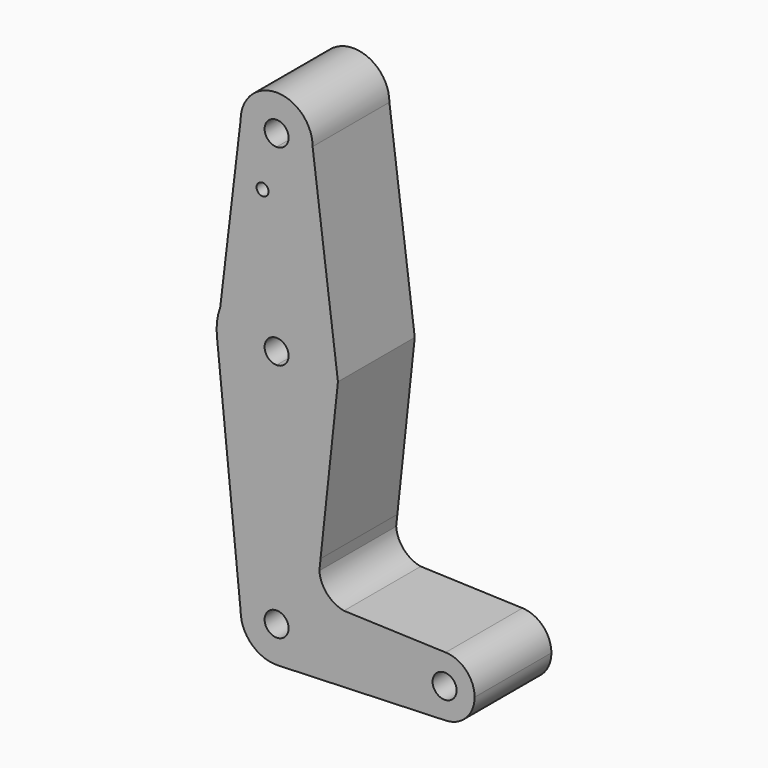
from build123d import *

# Parameters (mm, degrees)
F0_R     = 1.5875
F0_R_2   = 3.175
F1_DEPTH = 25.4


with BuildPart() as f1:
    # F0 (on Front) → F1 (new body)
    with BuildSketch(Plane.XZ):
        with BuildLine():
            Line((0.6773435479, 9.500885786), (0, 9.525))
            ThreePointArc((0, 9.525), (-6.7351920908, 6.7351920908), (-9.525, 0))
            ThreePointArc((-9.525, 0), (-6.6135634008, -6.854662949), (0.3409116313, -9.5188972187))
            ThreePointArc((0.3409116313, -9.5188972187), (6.854662949, -6.6135634008), (9.525, 0))
            ThreePointArc((9.525, 0), (6.9705567315, 6.4912990883), (0.6773435479, 9.500885786))
        make_face()
        with BuildLine():
            ThreePointArc((3.175, 0), (-2.2450640303, -2.2450640303), (0, 3.175))
            ThreePointArc((0, 3.175), (2.2450640303, 2.2450640303), (3.175, 0))
        make_face(mode=Mode.SUBTRACT)
        with BuildLine():
            ThreePointArc((-9.525, 0), (-6.7351920908, 6.7351920908), (0, 9.525))
            Line((0, 9.525), (0, 47.625))
            ThreePointArc((0, 47.625), (-10.5777230013, 51.6624579787), (-15.7750224275, 61.7211541912))
            Line((-15.7750224275, 61.7211541912), (-9.525, 0))
        make_face()
        with BuildLine():
            Line((0, 47.625), (0, 9.525))
            ThreePointArc((0, 9.525), (0.3388863295, 9.5189695375), (0.6773435479, 9.500885786))
            Line((0.6773435479, 9.500885786), (10.5658961765, 9.1488418708))
            Line((10.5658961765, 9.1488418708), (11.3140704884, 16.0926127295))
            ThreePointArc((11.3140704884, 16.0926127295), (11.3356363885, 17.5639502135), (11.6279927611, 19.006110687))
            Line((11.6279927611, 19.006110687), (16.2304341333, 61.7211541912))
            Line((16.2304341333, 61.7211541912), (15.7474568676, 65.5082896216))
            ThreePointArc((15.7474568676, 65.5082896216), (15.8430821303, 64.506167786), (15.875, 63.5))
            ThreePointArc((15.875, 63.5), (11.2253201513, 52.2746798487), (0, 47.625))
        make_face()
        with BuildLine():
            ThreePointArc((-15.7750224275, 61.7211541912), (-10.5777230013, 51.6624579787), (0, 47.625))
            Line((0, 47.625), (0, 60.325))
            ThreePointArc((0, 60.325), (-3.175, 63.5), (0, 66.675))
            Line((0, 66.675), (0, 79.375))
            ThreePointArc((0, 79.375), (-9.1064885054, 76.5033646454), (-14.918424022, 68.9273612095))
            Line((-14.918424022, 68.9273612095), (-15.7750224275, 61.7211541912))
        make_face()
        with BuildLine():
            Line((0, 60.325), (0, 47.625))
            ThreePointArc((0, 47.625), (11.2253201513, 52.2746798487), (15.875, 63.5))
            ThreePointArc((15.875, 63.5), (15.8430821303, 64.506167786), (15.7474568676, 65.5082896216))
            ThreePointArc((15.7474568676, 65.5082896216), (10.4912827447, 75.4142188737), (0, 79.375))
            Line((0, 79.375), (0, 66.675))
            ThreePointArc((0, 66.675), (2.2450640303, 65.7450640303), (3.175, 63.5))
            ThreePointArc((3.175, 63.5), (2.2450640303, 61.2549359697), (0, 60.325))
        make_face()
        with BuildLine():
            Line((10.5658961765, 9.1488418708), (0.6773435479, 9.500885786))
            ThreePointArc((0.6773435479, 9.500885786), (6.9705567315, 6.4912990883), (9.525, 0))
            ThreePointArc((9.525, 0), (6.854662949, -6.6135634008), (0.3409116313, -9.5188972187))
            Line((0.3409116313, -9.5188972187), (44.5010612585, -7.9373357619))
            ThreePointArc((44.5010612585, -7.9373357619), (36.5133432524, 0.1156975416), (44.7324052746, 7.9324746146))
            Line((44.7324052746, 7.9324746146), (17.815456774, 8.8907491255))
            Line((17.815456774, 8.8907491255), (10.5658961765, 9.1488418708))
        make_face()
        with BuildLine():
            ThreePointArc((-14.918424022, 68.9273612095), (-15.7640181628, 65.3738613515), (-15.7750224275, 61.7211541912))
            Line((-15.7750224275, 61.7211541912), (-14.918424022, 68.9273612095))
        make_face()
        with BuildLine():
            Line((11.3140704884, 16.0926127295), (10.5658961765, 9.1488418708))
            Line((10.5658961765, 9.1488418708), (17.815456774, 8.8907491255))
            ThreePointArc((17.815456774, 8.8907491255), (13.3387852281, 11.3849452803), (11.3140704884, 16.0926127295))
        make_face()
        with BuildLine():
            Line((-9.525, 114.3), (-14.918424022, 68.9273612095))
            ThreePointArc((-14.918424022, 68.9273612095), (-9.1064885054, 76.5033646454), (0, 79.375))
            Line((0, 79.375), (0, 104.775))
            ThreePointArc((0, 104.775), (-6.7351920908, 107.5648079092), (-9.525, 114.3))
        make_face()
        with Locations((-3.7187531125, 100.0252)):
            Circle(F0_R, mode=Mode.SUBTRACT)
        with BuildLine():
            ThreePointArc((0, 79.375), (10.4912827447, 75.4142188737), (15.7474568676, 65.5082896216))
            Line((15.7474568676, 65.5082896216), (9.525, 114.3))
            ThreePointArc((9.525, 114.3), (6.7351920908, 107.5648079092), (0, 104.775))
            Line((0, 104.775), (0, 79.375))
        make_face()
        with BuildLine():
            Line((44.9668802844, -7.9206528154), (44.5010612585, -7.9373357619))
            ThreePointArc((44.5010612585, -7.9373357619), (44.734093258, -7.9324143406), (44.9668802844, -7.9206528154))
        make_face()
        with BuildLine():
            ThreePointArc((44.7324052746, 7.9324746146), (36.5133432524, 0.1156975416), (44.5010612585, -7.9373357619))
            Line((44.5010612585, -7.9373357619), (44.9668802844, -7.9206528154))
            ThreePointArc((44.9668802844, -7.9206528154), (50.2425229178, -5.4268392731), (52.3875, 0))
            ThreePointArc((52.3875, 0), (50.1616327839, 5.5119104847), (44.7324052746, 7.9324746146))
        make_face()
        with Locations((44.45, 0)):
            Circle(F0_R_2, mode=Mode.SUBTRACT)
        with BuildLine():
            ThreePointArc((11.6279927611, 19.006110687), (11.3356363885, 17.5639502135), (11.3140704884, 16.0926127295))
            Line((11.3140704884, 16.0926127295), (11.6279927611, 19.006110687))
        make_face()
        with BuildLine():
            ThreePointArc((9.525, 114.3), (0, 123.825), (-9.525, 114.3))
            ThreePointArc((-9.525, 114.3), (-6.7351920908, 107.5648079092), (0, 104.775))
            ThreePointArc((0, 104.775), (6.7351920908, 107.5648079092), (9.525, 114.3))
        make_face()
        with BuildLine():
            ThreePointArc((3.175, 114.3), (2.2450640303, 112.0549359697), (0, 111.125))
            ThreePointArc((0, 111.125), (-2.2450640303, 116.5450640303), (3.175, 114.3))
        make_face(mode=Mode.SUBTRACT)
    extrude(amount=F1_DEPTH)


solid = f1.part
